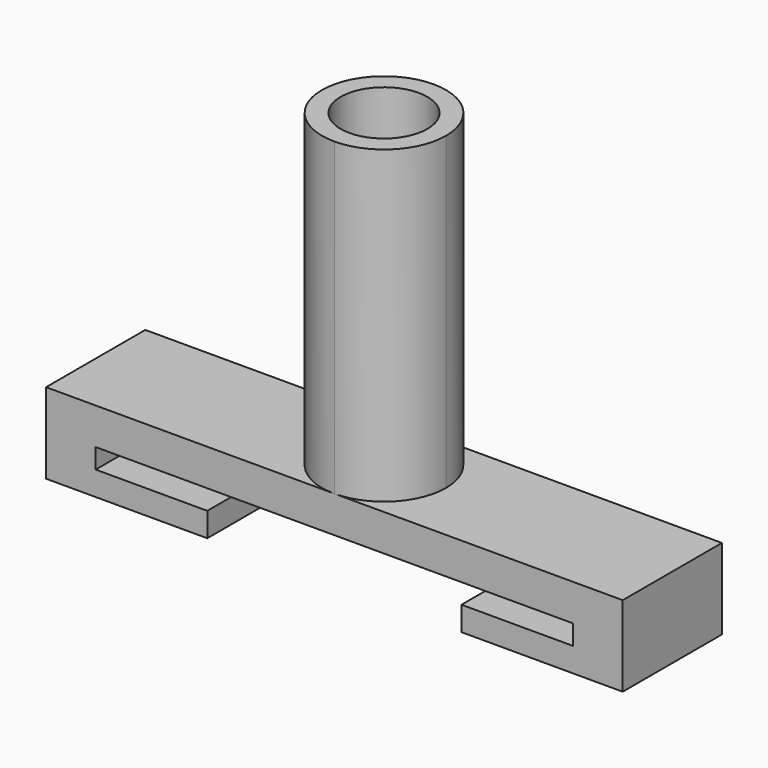
from build123d import *

# Parameters (mm, degrees)
F0_W     = 4
F0_H     = 10
F0_W_2   = 9
F0_W_3   = 20.5
F1_DEPTH = 6.5
F2_DEPTH = 3.55
F3_DEPTH = 1.95
F4_R     = 3.5
F5_DEPTH = 25


with BuildPart() as f1:
    # F0 (on Top) → F1 (new body)
    with BuildSketch(Plane.XY):
        with Locations((-21.25, 5)):
            Rectangle(F0_W, F0_H)
        with Locations((-14.75, 5)):
            Rectangle(F0_W_2, F0_H)
        with Locations((0, 5)):
            Rectangle(F0_W_3, F0_H)
        with Locations((14.75, 5)):
            Rectangle(F0_W_2, F0_H)
        with Locations((21.25, 5)):
            Rectangle(F0_W, F0_H)
    extrude(amount=F1_DEPTH)

    # F0 (on Top) → F2 (cut)
    with BuildSketch(Plane.XY):
        with Locations((-14.75, 5)):
            Rectangle(F0_W_2, F0_H)
        with Locations((0, 5)):
            Rectangle(F0_W_3, F0_H)
        with Locations((14.75, 5)):
            Rectangle(F0_W_2, F0_H)
    extrude(amount=F2_DEPTH, mode=Mode.SUBTRACT)

    # F0 (on Top) → F3 (join)
    with BuildSketch(Plane.XY):
        with Locations((-14.75, 5)):
            Rectangle(F0_W_2, F0_H)
        with Locations((14.75, 5)):
            Rectangle(F0_W_2, F0_H)
    extrude(amount=F3_DEPTH)

    # F4 (on face) → F5 (join)
    with BuildSketch(Plane.XY.offset(6.5)):
        with BuildLine():
            ThreePointArc((0, 0), (3.535534, 1.464466), (5, 5))
            ThreePointArc((5, 5), (3.535534, 8.535534), (0, 10))
            ThreePointArc((0, 10), (-5, 5), (0, 0))
        make_face()
        with Locations((0, 5)):
            Circle(F4_R, mode=Mode.SUBTRACT)
    extrude(amount=F5_DEPTH)


solid = f1.part
